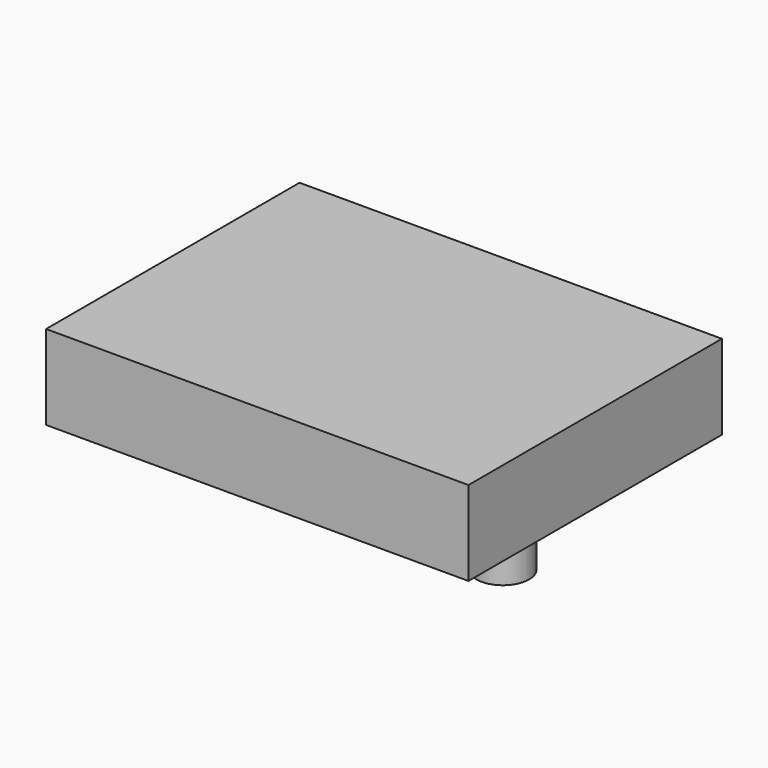
from build123d import *

# Parameters (mm, degrees)
F0_W     = 50.8
F0_H     = 25.4
F1_DEPTH = 10.16
F2_R     = 3.175
F3_DEPTH = 10.16
F5_DEPTH = 10.16
F6_DEPTH = 6.35
F7_DEPTH = 6.35


with BuildPart() as f1:
    # F0 (on Top) → F1 (new body)
    with BuildSketch(Plane.XY):
        with Locations((25.4, 12.7)):
            Rectangle(F0_W, F0_H)
    extrude(amount=F1_DEPTH)

    # F2 (on face) → F3 (join)
    with BuildSketch(Plane(origin=(0, 0, 0), x_dir=(1, 0, 0), z_dir=(0, 0, -1))):
        with Locations((25.4, -12.7)):
            Circle(F2_R)
    extrude(amount=F3_DEPTH)

    # F4 (on face) → F5 (join)
    with BuildSketch(Plane(origin=(0, 0, 0), x_dir=(1, 0, 0), z_dir=(0, 0, -1))):
        with BuildLine():
            Line((7.9375, -12.7), (14.2875, -12.7))
            ThreePointArc((14.2875, -12.7), (11.1125, -9.525), (7.9375, -12.7))
        make_face()
        with BuildLine():
            ThreePointArc((7.9375, -12.7), (11.1125, -15.875), (14.2875, -12.7))
            Line((14.2875, -12.7), (7.9375, -12.7))
        make_face()
        with BuildLine():
            Line((42.8625, -12.7), (36.5125, -12.7))
            ThreePointArc((36.5125, -12.7), (39.6875, -15.875), (42.8625, -12.7))
        make_face()
        with BuildLine():
            ThreePointArc((42.8625, -12.7), (39.6875, -9.525), (36.5125, -12.7))
            Line((36.5125, -12.7), (42.8625, -12.7))
        make_face()
    extrude(amount=F5_DEPTH)

    # F6 (add): a face of the model
    f6_faces = [f1.faces().sort_by_distance(p)[0] for p in [
        (25.4, 0, 5.08),
    ]]
    extrude(f6_faces, amount=F6_DEPTH)

    # F7 (add): a face of the model
    f7_faces = [f1.faces().sort_by_distance(p)[0] for p in [
        (25.4, 25.4, 5.08),
    ]]
    extrude(f7_faces, amount=F7_DEPTH)


solid = f1.part
